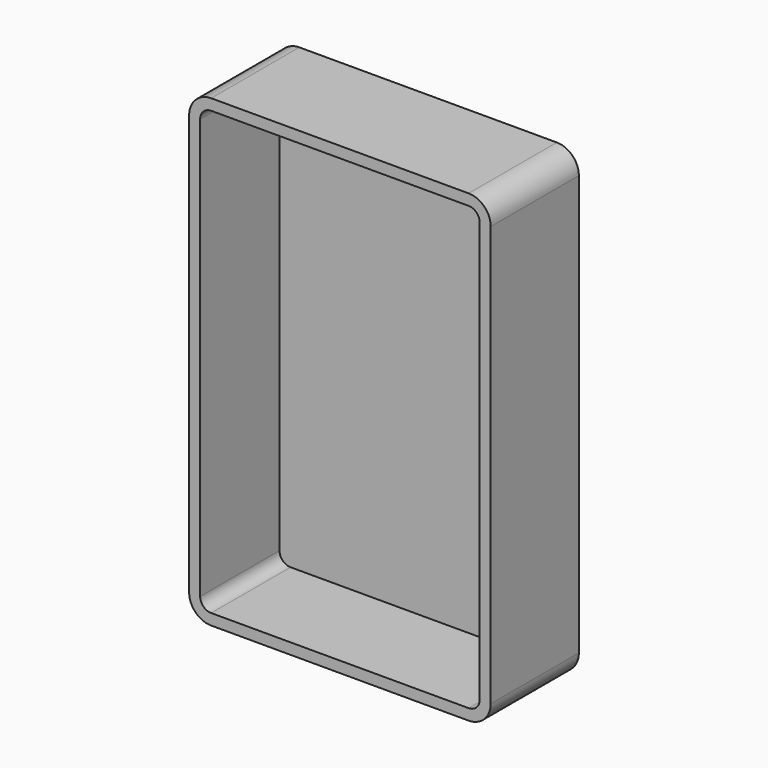
from build123d import *

# Parameters (mm, degrees)
F0_W     = 69.494404
F0_H     = 106.984802
F1_DEPTH = 25.4
F2_R     = 5.08
F3_T     = -2.54


with BuildPart() as f1:
    # F0 (on Front) → F1 (new body)
    with BuildSketch(Plane.XZ):
        Rectangle(F0_W, F0_H)
    extrude(amount=F1_DEPTH)

    # F2
    f2_edges = [f1.edges().sort_by_distance(p)[0] for p in [
        (-34.747202, -12.7, 53.492401),
        (-34.747202, -12.7, -53.492401),
        (34.747202, -12.7, 53.492401),
        (34.747202, -12.7, -53.492401),
    ]]
    fillet(f2_edges, radius=F2_R)

    # F3
    f3_openings = [f1.faces().sort_by_distance(p)[0] for p in [
        (0, -25.4, 0),
    ]]
    offset(amount=F3_T, openings=f3_openings)


solid = f1.part
